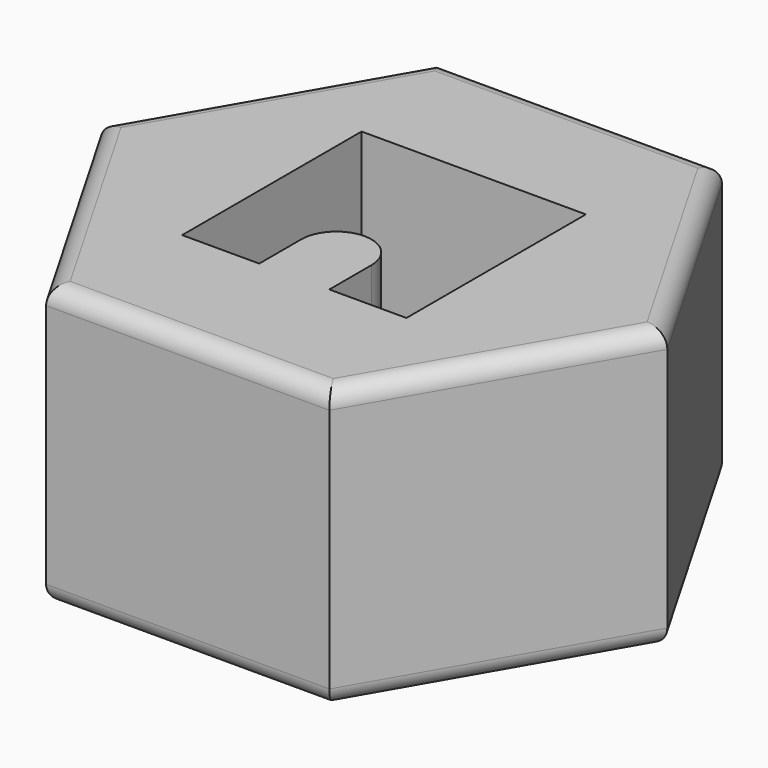
from build123d import *

# Parameters (mm, degrees)
F1_DEPTH = 8
F3_DEPTH = 6
F4_R     = 0.5


with BuildPart() as f1:
    # F0 (on Top) → F1 (new body)
    with BuildSketch(Plane.XY):
        Polygon((8.082904, 0), (4.041452, 7), (-4.041452, 7), (-8.082904, 0), (-4.041452, -7), (4.041452, -7), align=None)
    extrude(amount=F1_DEPTH)

    # F2 (on face) → F3 (cut)
    with BuildSketch(Plane.XY.offset(8)):
        with BuildLine():
            Line((3.2, -3.2), (3.2, 3.2))
            Line((3.2, 3.2), (-3.2, 3.2))
            Line((-3.2, 3.2), (-3.2, -3.2))
            Line((-3.2, -3.2), (-1, -3.2))
            Line((-1, -3.2), (-1, -1.7))
            ThreePointArc((-1, -1.7), (0, -0.7), (1, -1.7))
            Line((1, -1.7), (1, -3.2))
            Line((1, -3.2), (3.2, -3.2))
        make_face()
    extrude(amount=-F3_DEPTH, mode=Mode.SUBTRACT)

    # F4
    f4_edges = [f1.edges().sort_by_distance(p)[0] for p in [
        (-6.062178, -3.5, 0),
        (0, -7, 0),
        (6.062178, -3.5, 0),
        (6.062178, 3.5, 0),
        (0, 7, 0),
        (-6.062178, 3.5, 0),
        (0, -7, 8),
        (6.062178, -3.5, 8),
        (6.062178, 3.5, 8),
        (0, 7, 8),
        (-6.062178, 3.5, 8),
        (-6.062178, -3.5, 8),
    ]]
    fillet(f4_edges, radius=F4_R)


solid = f1.part
